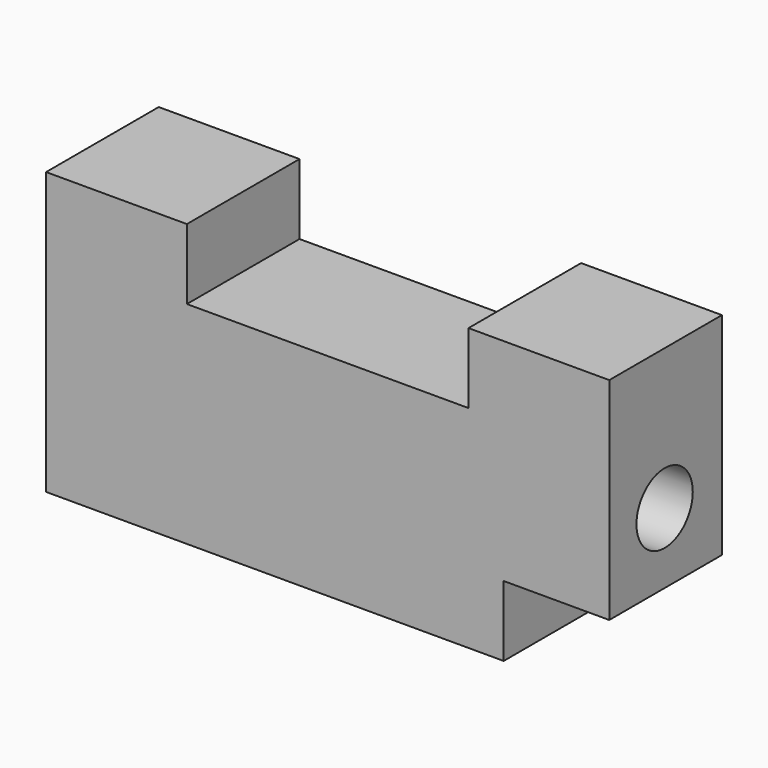
from build123d import *

# Parameters (mm, degrees)
F0_W     = 101.6
F0_H     = 50.8
F1_DEPTH = 25.4
F2_W     = 50.8
F2_H     = 12.7
F3_DEPTH = 25.4
F4_W     = 19.05
F4_H     = 12.7
F5_DEPTH = 25.4
F6_R     = 6.35
F7_DEPTH = 101.601


with BuildPart() as f1:
    # F0 (on Front) → F1 (new body)
    with BuildSketch(Plane.XZ):
        Rectangle(F0_W, F0_H)
    extrude(amount=F1_DEPTH)

    # F2 (on face) → F3 (cut)
    with BuildSketch(Plane.XZ.offset(25.4)):
        with Locations((0, 19.05)):
            Rectangle(F2_W, F2_H)
    extrude(amount=-F3_DEPTH, mode=Mode.SUBTRACT)

    # F4 (on face) → F5 (cut)
    with BuildSketch(Plane.XZ.offset(25.4)):
        with Locations((41.275, -19.05)):
            Rectangle(F4_W, F4_H)
    extrude(amount=-F5_DEPTH, mode=Mode.SUBTRACT)

    # F6 (on face) → F7 (cut, through all)
    with BuildSketch(Plane.YZ.offset(50.8)):
        with Locations((-12.923448, 0.000983)):
            Circle(F6_R)
    extrude(amount=-F7_DEPTH, mode=Mode.SUBTRACT)


solid = f1.part
